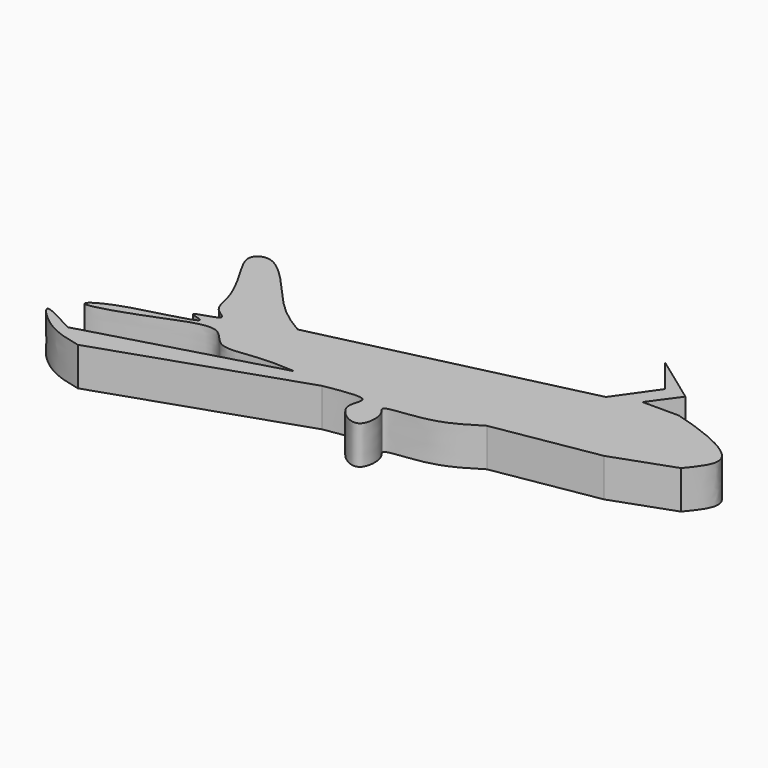
from build123d import *

# Parameters (mm, degrees)
F2_DEPTH = 5


with BuildPart() as f2:
    # F1 (on face) → F2 (new body)
    with BuildSketch(Plane.XY):
        with BuildLine():
            Line((-25.4853740335, 31.9179743528), (-59.3032278121, 23.9384826273))
            add(Edge.make_bspline(
                [(-53.7935756147, 16.5289510041), (-55.3993904633, 16.6181210419), (-58.5480223143, 16.7929628807), (-63.6602046886, 15.5869954562), (-65.505047361, 20.1507341591), (-73.0411579602, 16.4352057935), (-81.5444049485, 13.8988290413), (-77.3514882633, 17.1413360908), (-65.6598458257, 19.2416671473), (-71.3982067422, 19.9429437068), (-65.6827073781, 20.9776228206), (-68.9503169776, 22.1807898548), (-69.0134856683, 25.4800851431), (-71.940972036, 30.3809901751), (-73.6870478704, 33.5162001703), (-70.3398858766, 35.4032275936), (-63.9851883404, 26.6987900779), (-60.7130652885, 24.7696696625), (-59.3032278121, 23.9384826273)],
                knots=[0, 0, 0, 0, 0.0663946497, 0.1301845658, 0.1839181741, 0.2687551452, 0.3449091831, 0.3980302229, 0.4886027905, 0.5245365909, 0.575354719, 0.613284461, 0.6671104521, 0.739964383, 0.7917407358, 0.8344735283, 0.9286807313, 1, 1, 1, 1], degree=3))
            Line((-53.7935756147, 16.5289510041), (-77.9220461845, 9.6893850714))
            add(Edge.make_bspline(
                [(-74.6922492981, 7.3000467425), (-76.3542058918, 7.6745993957), (-79.3699481045, 8.354252674), (-83.707493466, 12.8534663924), (-79.9363236215, 10.7910004355), (-77.9220461845, 9.6893850714)],
                knots=[0, 0, 0, 0, 0.3638372124, 0.6602093244, 1, 1, 1, 1], degree=3))
            Line((-74.6922492981, 7.3000467425), (-49.613840878, 15.7689992338))
            add(Edge.make_bspline(
                [(-30.9950243682, 19.3787701428), (-32.6815683492, 18.3150472324), (-35.8763667105, 16.300050737), (-42.6726255435, 16.1659092148), (-40.6046029148, 14.7713273261), (-40.910062397, 10.0498859325), (-45.7769164841, 13.4768857592), (-43.2411687364, 16.8824473177), (-47.2249181325, 16.1863973667), (-49.613840878, 15.7689992338)],
                knots=[0, 0, 0, 0, 0.1880411751, 0.3562039559, 0.4408493561, 0.5727089763, 0.7167167361, 0.8301243966, 1, 1, 1, 1], degree=3))
            Line((-30.9950243682, 19.3787701428), (-17.5058804452, 21.6586273164))
            Line((-17.5058804452, 21.6586273164), (-9.7163738683, 24.4429038853))
            add(Edge.make_bspline(
                [(-17.1259026974, 33.3729714343), (-15.8087769626, 32.991106705), (-12.9838760238, 32.1721036259), (-6.0476017656, 28.8973255526), (-8.5550262952, 25.8529483492), (-9.7163738683, 24.4429038853)],
                knots=[0, 0, 0, 0, 0.3192446966, 0.6846989769, 1, 1, 1, 1], degree=3))
            Line((-17.1259026974, 33.3729714343), (-21.8756031245, 33.3729714343))
            Line((-21.8756031245, 33.3729714343), (-19.2157700658, 37.047650665))
            Line((-19.2157700658, 37.047650665), (-25.4853740335, 41.5857610282))
            Line((-25.4853740335, 41.5857610282), (-21.8756031245, 37.047650665))
            Line((-21.8756031245, 37.047650665), (-25.4853740335, 31.9179743528))
        make_face()
    extrude(amount=F2_DEPTH)


solid = f2.part
